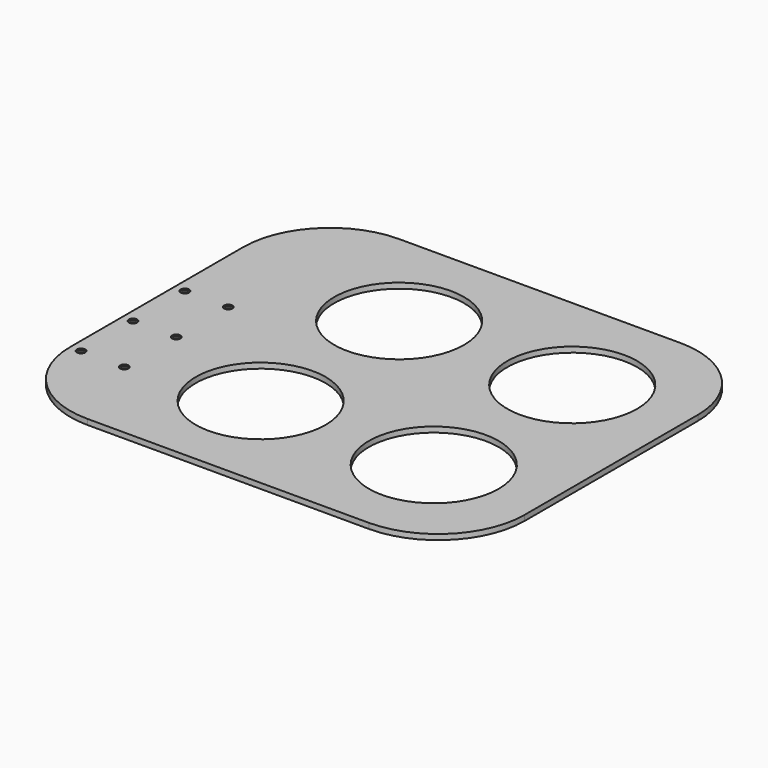
from build123d import *

# Parameters (mm, degrees)
F0_W           = 266.7
F0_H           = 228.6
F1_DEPTH       = 3.175
F2_R           = 50.8
F4_D           = 4.9784
F4_CSINK_D     = 9.1186
F4_CSINK_ANGLE = 82
F5_R           = 38.1
F6_DEPTH       = 3.176


with BuildPart() as f1:
    # F0 (on Top) → F1 (new body)
    with BuildSketch(Plane.XY):
        Rectangle(F0_W, F0_H)
    extrude(amount=F1_DEPTH)

    # F2
    f2_edges = [f1.edges().sort_by_distance(p)[0] for p in [
        (-133.35, 114.3, 1.5875),
        (133.35, 114.3, 1.5875),
        (133.35, -114.3, 1.5875),
        (-133.35, -114.3, 1.5875),
    ]]
    fillet(f2_edges, radius=F2_R)

    # F4 (through all)
    with Locations(Plane(origin=(0, 0, 0), x_dir=(1, 0, 0), z_dir=(0, 0, -1))):
        with Locations((-127, -12.7), (-101.6, -12.7), (-101.6, 25.4), (-127, 25.4), (-127, 63.5), (-101.6, 63.5)):
            CounterSinkHole(F4_D / 2, F4_CSINK_D / 2, counter_sink_angle=F4_CSINK_ANGLE)

    # F5 (on face) → F6 (cut, through all)
    with BuildSketch(Plane.XY.offset(3.175)):
        with Locations((-31.75, 50.8)):
            Circle(F5_R)
        with Locations((69.85, 50.8)):
            Circle(F5_R)
        with Locations((-31.75, -50.8)):
            Circle(F5_R)
        with Locations((69.85, -50.8)):
            Circle(F5_R)
    extrude(amount=-F6_DEPTH, mode=Mode.SUBTRACT)


solid = f1.part
